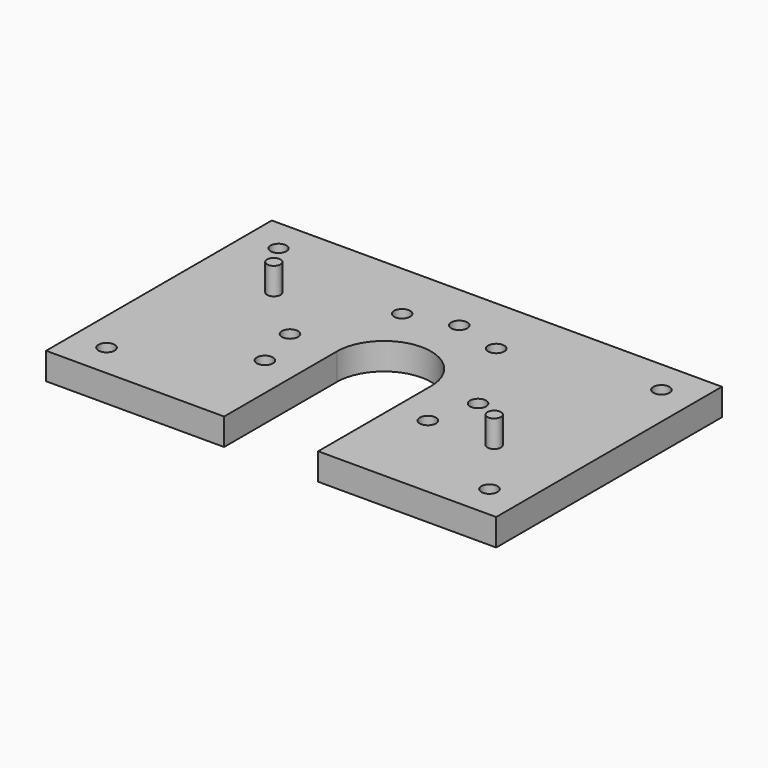
from build123d import *

# Parameters (mm, degrees)
F0_R     = 6
F0_R_2   = 5
F0_R_3   = 5.872705
F1_DEPTH = 20
F2_DEPTH = 40


with BuildPart() as f1:
    # F0 (on Top) → F1 (new body)
    with BuildSketch(Plane.XY):
        with BuildLine():
            Line((167.5, 105), (-167.5, 105))
            Line((-167.5, 105), (-167.5, -105))
            Line((-167.5, -105), (-35, -105))
            Line((-35, -105), (-35, 0))
            ThreePointArc((-35, 0), (0, 35), (35, 0))
            Line((35, 0), (35, -105))
            Line((35, -105), (167.5, -105))
            Line((167.5, -105), (167.5, 105))
        make_face()
        with Locations((-142.5, -80)):
            Circle(F0_R, mode=Mode.SUBTRACT)
        with Locations((-60.621778, -35)):
            Circle(F0_R, mode=Mode.SUBTRACT)
        with Locations((142.5, -80)):
            Circle(F0_R, mode=Mode.SUBTRACT)
        with Locations((60.621778, -35)):
            Circle(F0_R, mode=Mode.SUBTRACT)
        with Locations((110, -35)):
            Circle(F0_R_2, mode=Mode.SUBTRACT)
        with Locations((-110, 35)):
            Circle(F0_R_2, mode=Mode.SUBTRACT)
        with Locations((-70, 0)):
            Circle(F0_R, mode=Mode.SUBTRACT)
        with Locations((-142.5, 80)):
            Circle(F0_R_3, mode=Mode.SUBTRACT)
        with Locations((-35, 60.621778)):
            Circle(F0_R, mode=Mode.SUBTRACT)
        with Locations((70, 0)):
            Circle(F0_R, mode=Mode.SUBTRACT)
        with Locations((35, 60.621778)):
            Circle(F0_R, mode=Mode.SUBTRACT)
        with Locations((0, 70)):
            Circle(F0_R, mode=Mode.SUBTRACT)
        with Locations((142.5, 80)):
            Circle(F0_R, mode=Mode.SUBTRACT)
    extrude(amount=F1_DEPTH)

    # F0 (on Top) → F2 (join)
    with BuildSketch(Plane.XY):
        with Locations((-110, 35)):
            Circle(F0_R_2)
        with Locations((110, -35)):
            Circle(F0_R_2)
    extrude(amount=F2_DEPTH)


solid = f1.part
